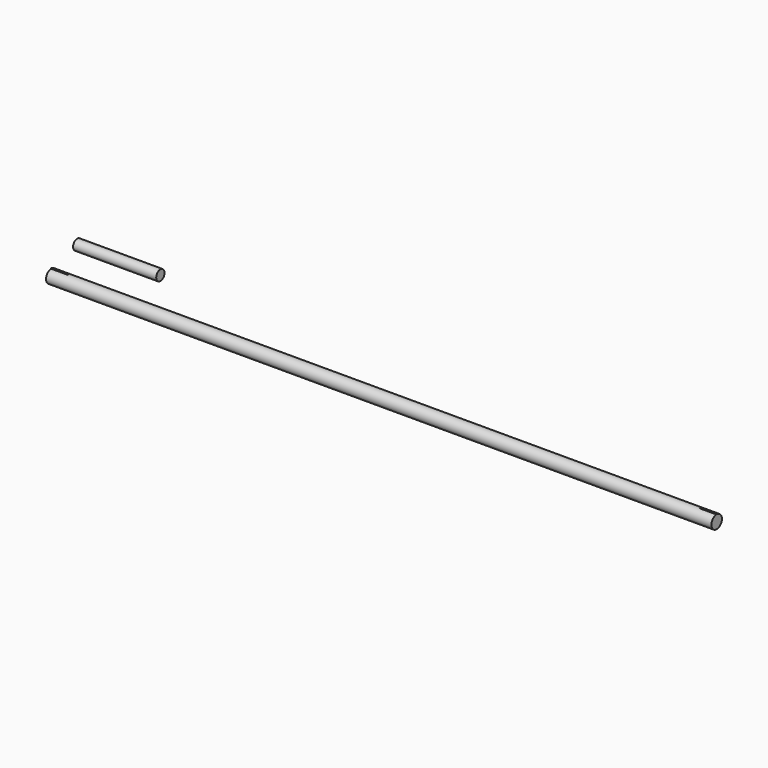
from build123d import *

# Parameters (mm, degrees)
F0_R      = 4
F1_DEPTH  = 406.4
F6_W      = 0.3048
F6_H      = 0.3048
F7_DEPTH  = 10.16
F8_W      = 0.3048
F8_H      = 0.296858
F9_DEPTH  = 10.16
F10_R     = 3.175
F11_DEPTH = 50.8


with BuildPart() as f1:
    # F0 (on Right) → F1 (new body)
    with BuildSketch(Plane.YZ):
        Circle(F0_R)
    extrude(amount=F1_DEPTH)

    # F6 (on face) → F7 (join)
    with BuildSketch(Plane.YZ.offset(406.4)):
        with Locations((-0.005654, 4.149276)):
            Rectangle(F6_W, F6_H)
    extrude(amount=-F7_DEPTH)

    # F8 (on face) → F9 (join)
    with BuildSketch(Plane(origin=(0, 0, 0), x_dir=(0, -1, 0), z_dir=(-1, 0, 0))):
        with Locations((-0.001954, 4.14545)):
            Rectangle(F8_W, F8_H)
    extrude(amount=-F9_DEPTH)


with BuildPart() as f11:
    # F10 (on Right) → F11 (new body)
    with BuildSketch(Plane.YZ):
        with Locations((19.780048, 8.919234)):
            Circle(F10_R)
    extrude(amount=F11_DEPTH)


solid = Compound([f1.part, f11.part])
